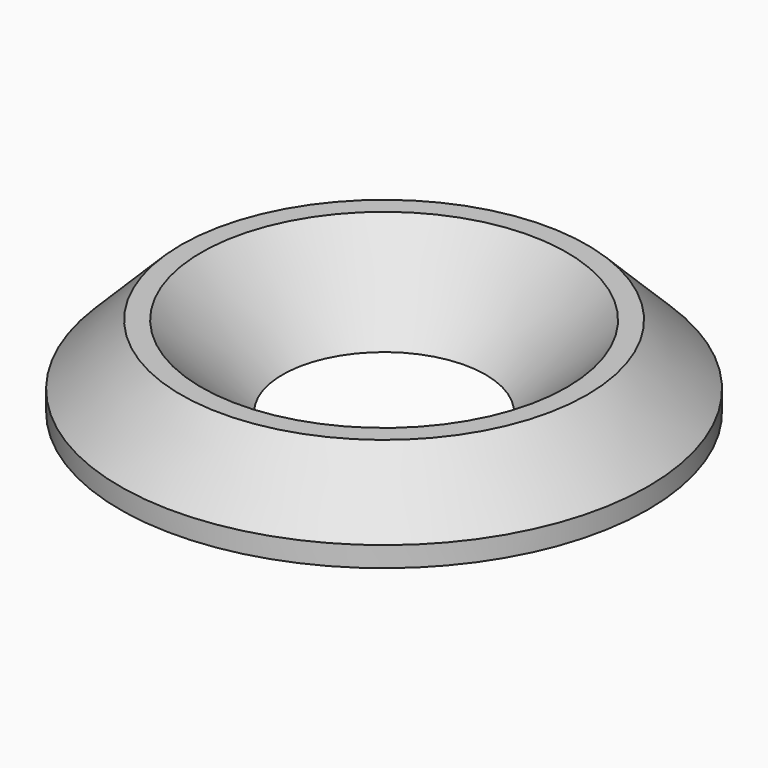
from build123d import *

# Parameters (mm, degrees)
HOLE_D           = 4.5
HOLE_DEPTH       = 25
HOLE_CSINK_D     = 9
HOLE_CSINK_ANGLE = 90


with BuildPart() as part:
    # Sketch → Revolution (revolve)
    with BuildSketch(Plane.XZ):
        Polygon((0, 0), (0, 2), (5, 2), (6.5, 0.5), (6.5, 0), align=None)
    revolve(axis=Axis((0, 0, 0), (0, 0, 1)))

    # Hole
    with Locations(Plane(origin=(0, 0, 2), x_dir=(-1, 0, 0), z_dir=(0, 0, 1))):
        with Locations((0, 0)):
            CounterSinkHole(HOLE_D / 2, HOLE_CSINK_D / 2, depth=HOLE_DEPTH, counter_sink_angle=HOLE_CSINK_ANGLE)


solid = part.part
